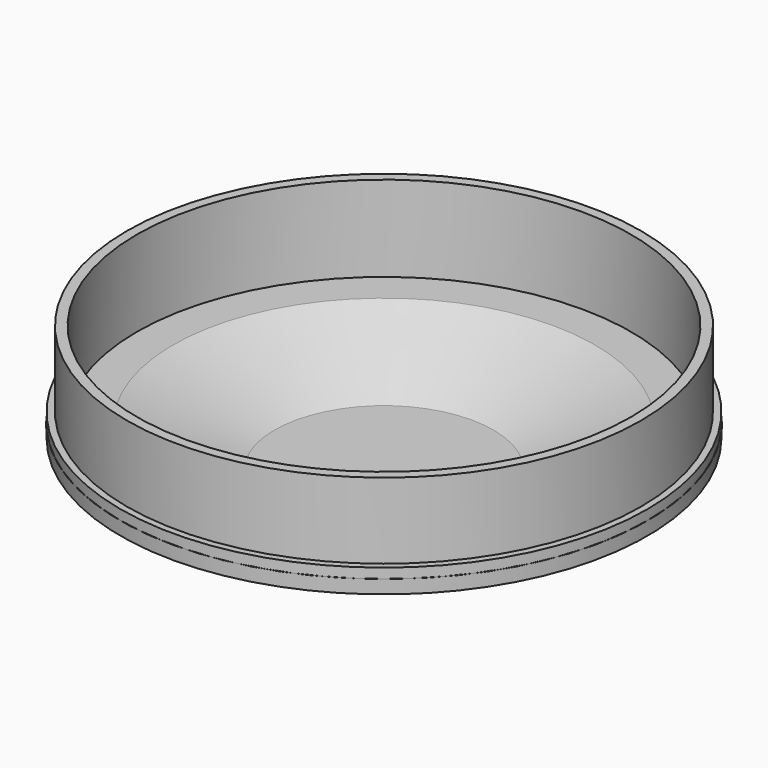
from build123d import *

# Parameters (mm, degrees)
F0_R     = 39
F0_R_2   = 37.5
F1_DEPTH = 13
F2_R     = 40
F2_R_2   = 37.5
F3_DEPTH = 1.5


with BuildPart() as f1:
    # F0 (on Top) → F1 (new body)
    with BuildSketch(Plane.XY):
        Circle(F0_R)
        Circle(F0_R_2, mode=Mode.SUBTRACT)
    extrude(amount=F1_DEPTH)

    # F2 (on Top) → F3 (join, symmetric)
    with BuildSketch(Plane.XY):
        Circle(F2_R)
        Circle(F2_R_2, mode=Mode.SUBTRACT)
    extrude(amount=F3_DEPTH, both=True)

    # F4 (on Right) → F5 (revolve)
    with BuildSketch(Plane.YZ):
        Polygon((39.990474, -2.075957), (40.046833, 0), (32.043573, 0), (16.581262, -6.303032), (0, -6.303032), (0, -8.613833), (16.571351, -8.613833), (32.719906, -2.075957), align=None)
    revolve(axis=Axis((0, 0, -7.458432), (0, 0, -1)))


solid = f1.part
